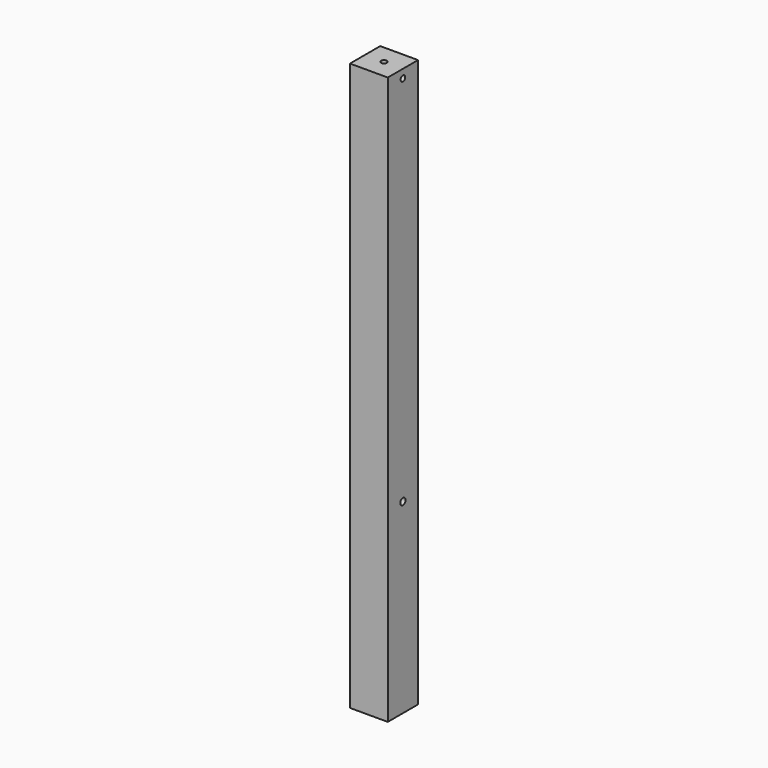
from build123d import *

# Parameters (mm, degrees)
F0_W     = 40
F0_H     = 40
F1_DEPTH = 600
F2_R     = 3
F3_DEPTH = 25
F4_R     = 3
F5_DEPTH = 10
F6_R     = 3
F7_DEPTH = 10
F8_R     = 3.5
F9_DEPTH = 25


with BuildPart() as f1:
    # F0 (on Top) → F1 (new body)
    with BuildSketch(Plane.XY):
        with Locations((20, 20)):
            Rectangle(F0_W, F0_H)
    extrude(amount=F1_DEPTH)

    # F2 (on face) → F3 (cut)
    with BuildSketch(Plane.XY.offset(600)):
        with Locations((20, 20)):
            Circle(F2_R)
    extrude(amount=-F3_DEPTH, mode=Mode.SUBTRACT)

    # F4 (on face) → F5 (cut)
    with BuildSketch(Plane.YZ.offset(40)):
        with Locations((20, 591)):
            Circle(F4_R)
    extrude(amount=-F5_DEPTH, mode=Mode.SUBTRACT)

    # F6 (on face) → F7 (cut)
    with BuildSketch(Plane(origin=(0, 40, 0), x_dir=(-1, 0, 0), z_dir=(0, 1, 0))):
        with Locations((-20, 591)):
            Circle(F6_R)
    extrude(amount=-F7_DEPTH, mode=Mode.SUBTRACT)

    # F8 (on face) → F9 (cut)
    with BuildSketch(Plane.YZ.offset(40)):
        with Locations((20, 197)):
            Circle(F8_R)
    extrude(amount=-F9_DEPTH, mode=Mode.SUBTRACT)


solid = f1.part
